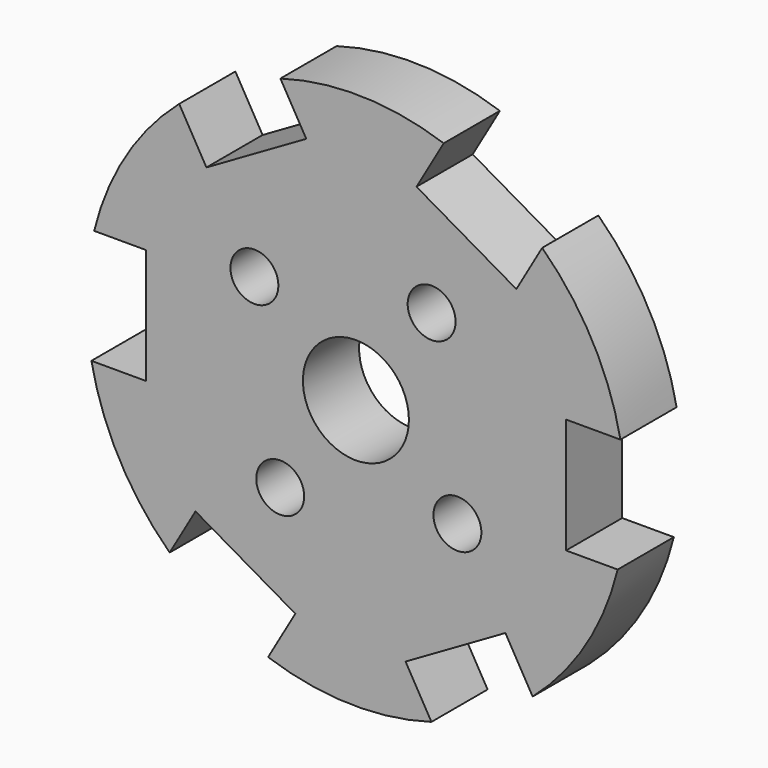
from build123d import *

# Parameters (mm, degrees)
F0_R     = 8.666153
F0_R_2   = 19.168158
F1_DEPTH = 25.4


with BuildPart() as f1:
    # F0 (on Front) → F1 (new body)
    with BuildSketch(Plane.XZ):
        with BuildLine():
            Line((76.006167, 18.568277), (95.687459, 18.568277))
            ThreePointArc((95.687459, 18.568277), (85.557284, 46.69927), (67.376698, 70.43615))
            Line((67.376698, 70.43615), (58.035859, 54.257342))
            Line((58.035859, 54.257342), (21.922483, 75.10741))
            Line((21.922483, 75.10741), (31.76313, 92.151909))
            ThreePointArc((31.76313, 92.151909), (2.335888, 97.444417), (-27.311146, 93.568007))
            Line((-27.311146, 93.568007), (-17.970307, 77.3892))
            Line((-17.970307, 77.3892), (-54.083683, 56.539132))
            Line((-54.083683, 56.539132), (-63.924329, 73.583632))
            ThreePointArc((-63.924329, 73.583632), (-83.221396, 50.745147), (-94.687845, 23.131857))
            Line((-94.687845, 23.131857), (-76.006167, 23.131857))
            Line((-76.006167, 23.131857), (-76.006167, -18.568277))
            Line((-76.006167, -18.568277), (-95.687459, -18.568277))
            ThreePointArc((-95.687459, -18.568277), (-85.557284, -46.69927), (-67.376698, -70.43615))
            Line((-67.376698, -70.43615), (-58.035859, -54.257342))
            Line((-58.035859, -54.257342), (-21.922483, -75.10741))
            Line((-21.922483, -75.10741), (-31.76313, -92.151909))
            ThreePointArc((-31.76313, -92.151909), (-2.335888, -97.444417), (27.311146, -93.568007))
            Line((27.311146, -93.568007), (17.970307, -77.3892))
            Line((17.970307, -77.3892), (54.083683, -56.539132))
            Line((54.083683, -56.539132), (63.924329, -73.583632))
            ThreePointArc((63.924329, -73.583632), (83.221396, -50.745147), (94.687845, -23.131857))
            Line((94.687845, -23.131857), (76.006167, -23.131857))
            Line((76.006167, -23.131857), (76.006167, 18.568277))
        make_face()
        with Locations((-27.384311, -36.719948)):
            Circle(F0_R, mode=Mode.SUBTRACT)
        with Locations((36.719948, -27.384311)):
            Circle(F0_R, mode=Mode.SUBTRACT)
        with Locations((-36.719948, 27.384311)):
            Circle(F0_R, mode=Mode.SUBTRACT)
        Circle(F0_R_2, mode=Mode.SUBTRACT)
        with Locations((27.384311, 36.719948)):
            Circle(F0_R, mode=Mode.SUBTRACT)
    extrude(amount=F1_DEPTH)


solid = f1.part
